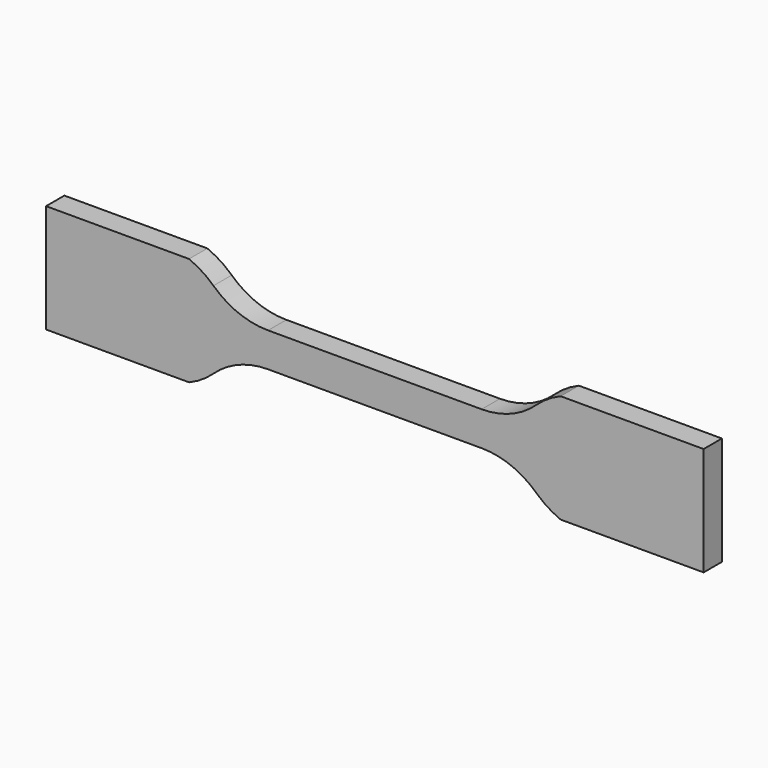
from build123d import *

# Parameters (mm, degrees)
F1_DEPTH = 2


with BuildPart() as f1:
    # F0 (on Front) → F1 (new body, symmetric)
    with BuildSketch(Plane.XZ):
        with BuildLine():
            Line((18.674977, 2.9972), (0, 2.9972))
            Line((0, 2.9972), (-18.674977, 2.9972))
            ThreePointArc((-18.674977, 2.9972), (-23.810965, 3.973658), (-28.230278, 6.766777))
            ThreePointArc((-28.230278, 6.766777), (-30.240037, 8.328068), (-32.4993, 9.4996))
            Line((-32.4993, 9.4996), (-57.5056, 9.4996))
            Line((-57.5056, 9.4996), (-57.5056, 0))
            Line((-57.5056, 0), (-57.5056, -9.4996))
            Line((-57.5056, -9.4996), (-32.4993, -9.4996))
            ThreePointArc((-32.4993, -9.4996), (-30.240037, -8.328068), (-28.230278, -6.766777))
            ThreePointArc((-28.230278, -6.766777), (-23.810965, -3.973658), (-18.674977, -2.9972))
            Line((-18.674977, -2.9972), (0, -2.9972))
            Line((0, -2.9972), (18.674977, -2.9972))
            ThreePointArc((18.674977, -2.9972), (23.810965, -3.973658), (28.230278, -6.766777))
            ThreePointArc((28.230278, -6.766777), (30.240037, -8.328068), (32.4993, -9.4996))
            Line((32.4993, -9.4996), (57.5056, -9.4996))
            Line((57.5056, -9.4996), (57.5056, 0))
            Line((57.5056, 0), (57.5056, 9.4996))
            Line((57.5056, 9.4996), (32.4993, 9.4996))
            ThreePointArc((32.4993, 9.4996), (30.240037, 8.328068), (28.230278, 6.766777))
            ThreePointArc((28.230278, 6.766777), (23.810965, 3.973658), (18.674977, 2.9972))
        make_face()
    extrude(amount=F1_DEPTH, both=True)


solid = f1.part
